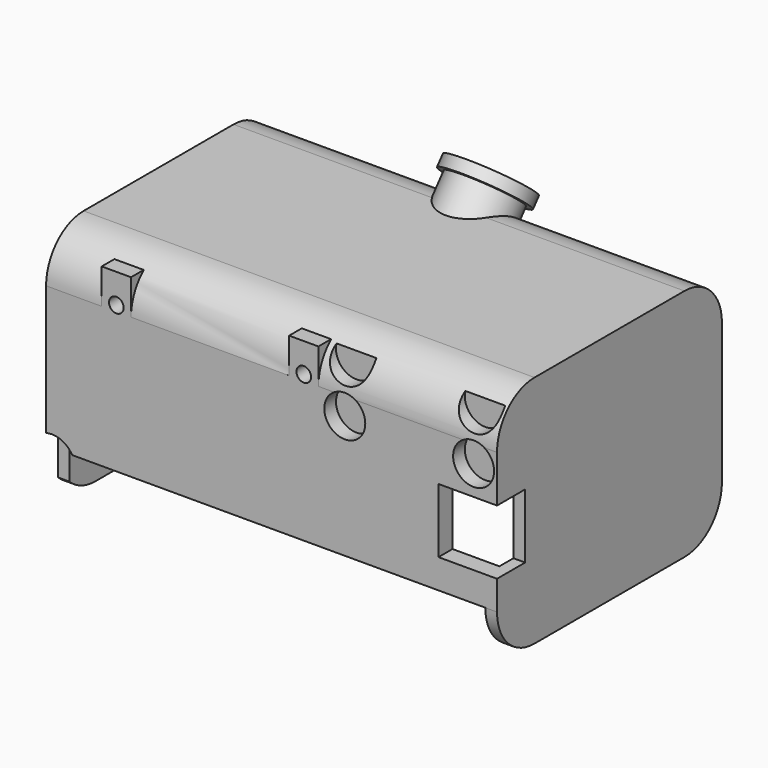
from build123d import *

# Parameters (mm, degrees)
CYLINDER027_R               = 4
CYLINDER027_DEPTH           = 2.5
CYLINDER027_ROLL_ANGLE      = 90
BOX036_W                    = 14
BOX036_H                    = 10
BOX036_DEPTH                = 11
CYLINDER023_R               = 1.25
CYLINDER023_DEPTH           = 15
CYLINDER023_ROLL_ANGLE      = 90
CYLINDER024_R               = 1.25
CYLINDER024_DEPTH           = 15
CYLINDER024_ROLL_ANGLE      = 90
CYLINDER018_R               = 3.5
CYLINDER018_DEPTH           = 10
CYLINDER019_R               = 3.5
CYLINDER019_DEPTH           = 10
FUSION020_ROLL_ANGLE        = 90
CYLINDER021_R               = 3.5
CYLINDER021_DEPTH           = 10
CYLINDER020_R               = 3.5
CYLINDER020_DEPTH           = 10
FUSION022_ROLL_ANGLE        = 90
BOX018_W                    = 5
BOX018_H                    = 3
BOX018_DEPTH                = 10
BOX035_W                    = 5
BOX035_H                    = 3
BOX035_DEPTH                = 10
BOX025_W                    = 20
BOX025_H                    = 10
BOX025_DEPTH                = 5
BOX024_W                    = 10
BOX024_H                    = 10
BOX024_DEPTH                = 28
FILLET010_R                 = 4.99
BOX022_W                    = 6
BOX022_H                    = 3
BOX022_DEPTH                = 3
CHAMFER002_SIZE             = 2.99
BOX020_W                    = 6
BOX020_H                    = 3
BOX020_DEPTH                = 3
CHAMFER_SIZE                = 2.99
BOX010_W                    = 73
BOX010_H                    = 10
BOX010_DEPTH                = 8
BOX002_W                    = 73
BOX002_H                    = 37
BOX002_DEPTH                = 40
BOX_W                       = 77
BOX_H                       = 48
BOX_DEPTH                   = 40
FILLET_R                    = 8
CYLINDER001_R               = 7
CYLINDER001_DEPTH           = 2
CYLINDER001_PLACEMENT_ANGLE = 29.99999
CYLINDER_R                  = 6
CYLINDER_DEPTH              = 10
CYLINDER_PLACEMENT_ANGLE    = 29.99999
FUSION004_ROLL_ANGLE        = 180
FUSION004_PITCH_ANGLE       = -70
FUSION004_PLACEMENT_ANGLE   = -90


with BuildPart() as cylinder027:
    # Cylinder027 → Cylinder027 (new body)
    with BuildSketch(Plane.XY):
        Circle(CYLINDER027_R)
    extrude(amount=CYLINDER027_DEPTH)


with BuildPart() as cylinder027_1:
    # Cylinder027 roll: moved
    add(cylinder027.part.rotate(Axis((0, 0, 0), (1, 0, 0)), CYLINDER027_ROLL_ANGLE))


with BuildPart() as cylinder027_2:
    # Cylinder027 placement: moved
    add(cylinder027_1.part.moved(Location((63, 84.5, -17))))


with BuildPart() as cube:
    # Box036 → Box036 (new body)
    with BuildSketch(Plane(origin=(129, 78, -10), x_dir=(1, 0, 0), z_dir=(0, 0, 1))):
        with Locations((7, 5)):
            Rectangle(BOX036_W, BOX036_H)
    extrude(amount=BOX036_DEPTH)


with BuildPart() as cylinder023:
    # Cylinder023 → Cylinder023 (new body)
    with BuildSketch(Plane.XY):
        Circle(CYLINDER023_R)
    extrude(amount=CYLINDER023_DEPTH)


with BuildPart() as cylinder023_1:
    # Cylinder023 roll: moved
    add(cylinder023.part.rotate(Axis((0, 0, 0), (1, 0, 0)), CYLINDER023_ROLL_ANGLE))


with BuildPart() as cylinder023_2:
    # Cylinder023 placement: moved
    add(cylinder023_1.part.moved(Location((74, 97, 10))))


with BuildPart() as fusion031:
    # Cylinder024 → Cylinder024 (new body)
    with BuildSketch(Plane.XY):
        Circle(CYLINDER024_R)
    extrude(amount=CYLINDER024_DEPTH)


with BuildPart() as fusion031_1:
    # Cylinder024 roll: moved
    add(fusion031.part.rotate(Axis((0, 0, 0), (1, 0, 0)), CYLINDER024_ROLL_ANGLE))


with BuildPart() as fusion031_2:
    # Cylinder024 placement: moved
    add(fusion031_1.part.moved(Location((106, 97, 10))))

    # Fusion031: union Cylinder023
    add(cylinder023_2.part)


with BuildPart() as fusion031_3:
    # Fusion031 placement: moved
    add(fusion031_2.part.moved(Location((0, -8, 0))))


with BuildPart() as cylinder018:
    # Cylinder018 → Cylinder018 (new body)
    with BuildSketch(Plane(origin=(-8, 25.5, 0), x_dir=(1, 0, 0), z_dir=(0, 0, 1))):
        Circle(CYLINDER018_R)
    extrude(amount=CYLINDER018_DEPTH)


with BuildPart() as fusion020:
    # Cylinder019 → Cylinder019 (new body)
    with BuildSketch(Plane(origin=(-8, 33.5, 0), x_dir=(1, 0, 0), z_dir=(0, 0, 1))):
        Circle(CYLINDER019_R)
    extrude(amount=CYLINDER019_DEPTH)

    # Fusion020: union Cylinder018
    add(cylinder018.part)


with BuildPart() as fusion020_1:
    # Fusion020 roll: moved
    add(fusion020.part.rotate(Axis((0, 0, 0), (1, 0, 0)), FUSION020_ROLL_ANGLE))


with BuildPart() as fusion020_2:
    # Fusion020 placement: moved
    add(fusion020_1.part.moved(Location((312, 84.5, -19.5))))


with BuildPart() as cylinder021:
    # Cylinder021 → Cylinder021 (new body)
    with BuildSketch(Plane(origin=(-8, 25.5, 0), x_dir=(1, 0, 0), z_dir=(0, 0, 1))):
        Circle(CYLINDER021_R)
    extrude(amount=CYLINDER021_DEPTH)


with BuildPart() as fusion023:
    # Cylinder020 → Cylinder020 (new body)
    with BuildSketch(Plane(origin=(-8, 33.5, 0), x_dir=(1, 0, 0), z_dir=(0, 0, 1))):
        Circle(CYLINDER020_R)
    extrude(amount=CYLINDER020_DEPTH)

    # Fusion022: union Cylinder021
    add(cylinder021.part)


with BuildPart() as fusion023_1:
    # Fusion022 roll: moved
    add(fusion023.part.rotate(Axis((0, 0, 0), (1, 0, 0)), FUSION022_ROLL_ANGLE))


with BuildPart() as fusion023_2:
    # Fusion022 placement: moved
    add(fusion023_1.part.moved(Location((334, 84.5, -19.5))))

    # Fusion023: union Fusion020
    add(fusion020_2.part)


with BuildPart() as fusion023_3:
    # Fusion023 placement: moved
    add(fusion023_2.part.moved(Location((-191, 0, 0))))


with BuildPart() as box018:
    # Box018 → Box018 (new body)
    with BuildSketch(Plane(origin=(71.5, 82, 5), x_dir=(1, 0, 0), z_dir=(0, 0, 1))):
        with Locations((2.5, 1.5)):
            Rectangle(BOX018_W, BOX018_H)
    extrude(amount=BOX018_DEPTH)


with BuildPart() as box035:
    # Box035 → Box035 (new body)
    with BuildSketch(Plane(origin=(103.5, 82, 5), x_dir=(1, 0, 0), z_dir=(0, 0, 1))):
        with Locations((2.5, 1.5)):
            Rectangle(BOX035_W, BOX035_H)
    extrude(amount=BOX035_DEPTH)


with BuildPart() as box025:
    # Box025 → Box025 (new body)
    with BuildSketch(Plane(origin=(90, 112, 9), x_dir=(1, 0, 0), z_dir=(0, 0, 1))):
        with Locations((10, 5)):
            Rectangle(BOX025_W, BOX025_H)
    extrude(amount=BOX025_DEPTH)


with BuildPart() as fillet010:
    # Box024 → Box024 (new body)
    with BuildSketch(Plane(origin=(54, 85, -16), x_dir=(1, 0, 0), z_dir=(0, 0, 1))):
        with Locations((5, 5)):
            Rectangle(BOX024_W, BOX024_H)
    extrude(amount=BOX024_DEPTH)

    # Fillet010
    fillet010_edges = [fillet010.edges().sort_by_distance(p)[0] for p in [
        (59, 85, -16),
        (59, 85, 12),
        (59, 95, -16),
        (59, 95, 12),
    ]]
    fillet(fillet010_edges, radius=FILLET010_R)


with BuildPart() as chamfer002:
    # Box022 → Box022 (new body)
    with BuildSketch(Plane(origin=(70, 113, -23), x_dir=(1, 0, 0), z_dir=(0, 0, 1))):
        with Locations((3, 1.5)):
            Rectangle(BOX022_W, BOX022_H)
    extrude(amount=BOX022_DEPTH)

    # Chamfer002
    chamfer002_edges = [chamfer002.edges().sort_by_distance(p)[0] for p in [
        (73, 116, -23),
    ]]
    chamfer(chamfer002_edges, length=CHAMFER002_SIZE)


with BuildPart() as chamfer002_1:
    # Chamfer002 placement: moved
    add(chamfer002.part.moved(Location((55, 9, 0.5))))


with BuildPart() as fusion028:
    # Box020 → Box020 (new body)
    with BuildSketch(Plane(origin=(70, 113, -23), x_dir=(1, 0, 0), z_dir=(0, 0, 1))):
        with Locations((3, 1.5)):
            Rectangle(BOX020_W, BOX020_H)
    extrude(amount=BOX020_DEPTH)

    # Chamfer
    chamfer_edges = [fusion028.edges().sort_by_distance(p)[0] for p in [
        (73, 116, -23),
    ]]
    chamfer(chamfer_edges, length=CHAMFER_SIZE)


with BuildPart() as fusion028_1:
    # Chamfer placement: moved
    add(fusion028.part.moved(Location((1, 9, 0.5))))

    # Fusion028: union Chamfer002
    add(chamfer002_1.part)


with BuildPart() as box010:
    # Box010 → Box010 (new body)
    with BuildSketch(Plane(origin=(64, 82, -23), x_dir=(1, 0, 0), z_dir=(0, 0, 1))):
        with Locations((36.5, 5)):
            Rectangle(BOX010_W, BOX010_H)
    extrude(amount=BOX010_DEPTH)


with BuildPart() as box002:
    # Box002 → Box002 (new body)
    with BuildSketch(Plane(origin=(64, 85, -26), x_dir=(1, 0, 0), z_dir=(0, 0, 1))):
        with Locations((36.5, 18.5)):
            Rectangle(BOX002_W, BOX002_H)
    extrude(amount=BOX002_DEPTH)


with BuildPart() as cut019:
    # Box → Box (new body)
    with BuildSketch(Plane(origin=(62, 82, -27), x_dir=(1, 0, 0), z_dir=(0, 0, 1))):
        with Locations((38.5, 24)):
            Rectangle(BOX_W, BOX_H)
    extrude(amount=BOX_DEPTH)

    # Fillet
    fillet_edges = [cut019.edges().sort_by_distance(p)[0] for p in [
        (100.5, 82, -27),
        (100.5, 82, 13),
        (100.5, 130, -27),
        (100.5, 130, 13),
    ]]
    fillet(fillet_edges, radius=FILLET_R)


with BuildPart() as cut019_1:
    # Fillet placement: moved
    add(cut019.part.moved(Location((0, 0, 4))))

    # Cut001: cut Box002
    add(box002.part, mode=Mode.SUBTRACT)

    # Cut004: cut Box010
    add(box010.part, mode=Mode.SUBTRACT)

    # Cut018: cut Fusion028
    add(fusion028_1.part, mode=Mode.SUBTRACT)

    # Cut019: cut Fillet010
    add(fillet010.part, mode=Mode.SUBTRACT)


with BuildPart() as cylinder001:
    # Cylinder001 → Cylinder001 (new body)
    with BuildSketch(Plane.XY):
        Circle(CYLINDER001_R)
    extrude(amount=CYLINDER001_DEPTH)


with BuildPart() as cylinder001_1:
    # Cylinder001 placement: moved
    add(cylinder001.part.moved(Location((51, 75, -3))).rotate(Axis((51, 75, -3), (0, -1, 0)), CYLINDER001_PLACEMENT_ANGLE))


with BuildPart() as cut025:
    # Cylinder → Cylinder (new body)
    with BuildSketch(Plane.XY):
        Circle(CYLINDER_R)
    extrude(amount=CYLINDER_DEPTH)


with BuildPart() as cut025_1:
    # Cylinder placement: moved
    add(cut025.part.moved(Location((51, 75, -3))).rotate(Axis((51, 75, -3), (0, -1, 0)), CYLINDER_PLACEMENT_ANGLE))

    # Fusion004: union Cylinder001
    add(cylinder001_1.part)


with BuildPart() as cut025_2:
    # Fusion004 roll: moved
    add(cut025_1.part.rotate(Axis((0, 0, 0), (1, 0, 0)), FUSION004_ROLL_ANGLE))


with BuildPart() as cut025_3:
    # Fusion004 pitch: moved
    add(cut025_2.part.rotate(Axis((0, 0, 0), (0, 1, 0)), FUSION004_PITCH_ANGLE))


with BuildPart() as cut025_4:
    # Fusion004 placement: moved
    add(cut025_3.part.moved(Location((175.5, 143.464742, -29.748779))).rotate(Axis((175.5, 143.464742, -29.748779), (0, 0, 1)), FUSION004_PLACEMENT_ANGLE))

    # Fusion029: union Cut019
    add(cut019_1.part)

    # Cut020: cut Box025
    add(box025.part, mode=Mode.SUBTRACT)

    # Fusion030: union Box018, Box035
    add(box018.part)
    add(box035.part)

    # Cut021: cut Fusion023
    add(fusion023_3.part, mode=Mode.SUBTRACT)

    # Cut022: cut Fusion031
    add(fusion031_3.part, mode=Mode.SUBTRACT)

    # Cut023: cut Cube
    add(cube.part, mode=Mode.SUBTRACT)

    # Cut025: cut Cylinder027
    add(cylinder027_2.part, mode=Mode.SUBTRACT)


solid = cut025_4.part
